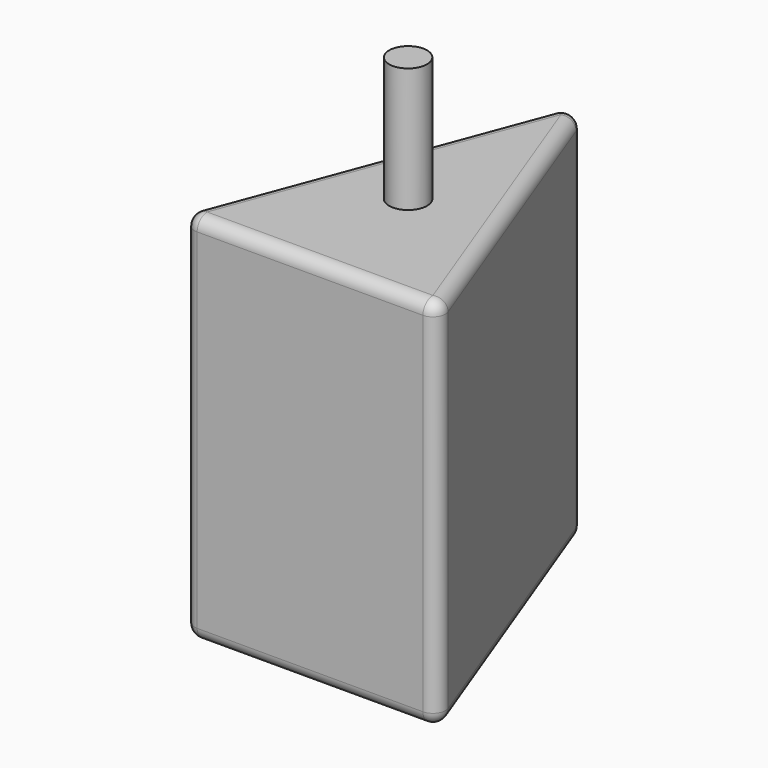
from build123d import *

# Parameters (mm, degrees)
F1_DEPTH = 38.1
F2_R     = 1.9304
F3_DEPTH = 50.8
F4_R     = 1.27


with BuildPart() as f1:
    # F0 (on Top) → F1 (new body)
    with BuildSketch(Plane.XY):
        Polygon((-1.570657, -2.248221), (-14.905657, -37.808221), (11.764343, -37.808221), align=None)
    extrude(amount=F1_DEPTH)

    # F2 (on Top) → F3 (join)
    with BuildSketch(Plane.XY):
        with Locations((-2.001594, -24.78213)):
            Circle(F2_R)
    extrude(amount=F3_DEPTH)

    # F4
    f4_edges = [f1.edges().sort_by_distance(p)[0] for p in [
        (-1.570657, -2.248221, 19.05),
        (11.764343, -37.808221, 19.05),
        (-14.905657, -37.808221, 19.05),
        (-1.570657, -37.808221, 38.1),
        (5.096843, -20.028221, 38.1),
        (-8.238157, -20.028221, 38.1),
        (5.096843, -20.028221, 0),
        (-8.238157, -20.028221, 0),
        (-1.570657, -37.808221, 0),
    ]]
    fillet(f4_edges, radius=F4_R)


solid = f1.part
